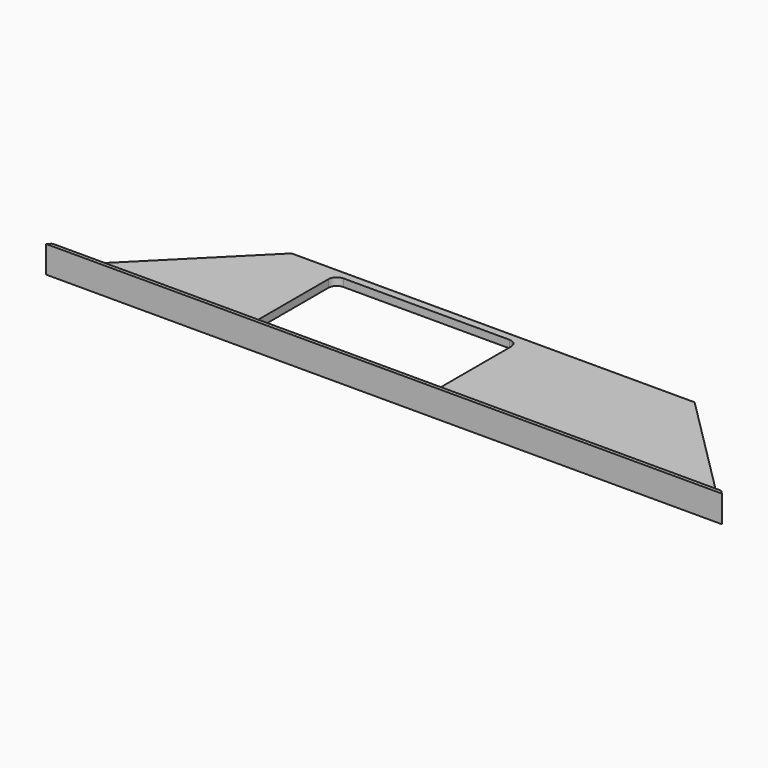
from build123d import *

# Parameters (mm, degrees)
F1_DEPTH = 3302
F3_DEPTH = 254
F5_DEPTH = 127
F6_DEPTH = 254


with BuildPart() as f1:
    # F0 (on Right) → F1 (new body)
    with BuildSketch(Plane.YZ):
        with BuildLine():
            Line((0, 34.925), (0, 0))
            Line((0, 0), (635, 0))
            Line((635, 0), (635, 22.225))
            ThreePointArc((635, 22.225), (631.280256, 31.205256), (622.3, 34.925))
            Line((622.3, 34.925), (38.1, 34.925))
            ThreePointArc((38.1, 34.925), (29.119744, 38.644744), (25.4, 47.625))
            Line((25.4, 47.625), (25.4, 111.125))
            ThreePointArc((25.4, 111.125), (21.680256, 120.105256), (12.7, 123.825))
            Line((12.7, 123.825), (0, 123.825))
            Line((0, 123.825), (0, 34.925))
        make_face()
    extrude(amount=F1_DEPTH)

    # F2 (on face) → F3 (cut)
    with BuildSketch(Plane(origin=(0, 0, 0), x_dir=(1, 0, 0), z_dir=(0, 0, -1))):
        Polygon((3302, -635), (3302, 0), (2667, -635), align=None)
        Polygon((0, -635), (835.025, -635), (200.025, 0), (0, 0), align=None)
    extrude(amount=-F3_DEPTH, mode=Mode.SUBTRACT)

    # F4 (on face) → F5 (cut)
    with BuildSketch(Plane.XY.offset(34.925)):
        with BuildLine():
            Line((1092.2, 31.75), (1854.2, 31.75))
            ThreePointArc((1854.2, 31.75), (1881.140768, 42.909232), (1892.3, 69.85))
            Line((1892.3, 69.85), (1892.3, 552.45))
            ThreePointArc((1892.3, 552.45), (1881.140768, 579.390768), (1854.2, 590.55))
            Line((1854.2, 590.55), (1092.2, 590.55))
            ThreePointArc((1092.2, 590.55), (1065.259232, 579.390768), (1054.1, 552.45))
            Line((1054.1, 552.45), (1054.1, 69.85))
            ThreePointArc((1054.1, 69.85), (1065.259232, 42.909232), (1092.2, 31.75))
        make_face()
    extrude(amount=-F5_DEPTH, mode=Mode.SUBTRACT)

    # F4 (on face) → F6 (cut)
    with BuildSketch(Plane.XY.offset(34.925)):
        with BuildLine():
            Line((1092.2, 31.75), (1854.2, 31.75))
            ThreePointArc((1854.2, 31.75), (1881.140768, 42.909232), (1892.3, 69.85))
            Line((1892.3, 69.85), (1892.3, 552.45))
            ThreePointArc((1892.3, 552.45), (1881.140768, 579.390768), (1854.2, 590.55))
            Line((1854.2, 590.55), (1092.2, 590.55))
            ThreePointArc((1092.2, 590.55), (1065.259232, 579.390768), (1054.1, 552.45))
            Line((1054.1, 552.45), (1054.1, 69.85))
            ThreePointArc((1054.1, 69.85), (1065.259232, 42.909232), (1092.2, 31.75))
        make_face()
    extrude(amount=F6_DEPTH, mode=Mode.SUBTRACT)


solid = f1.part
